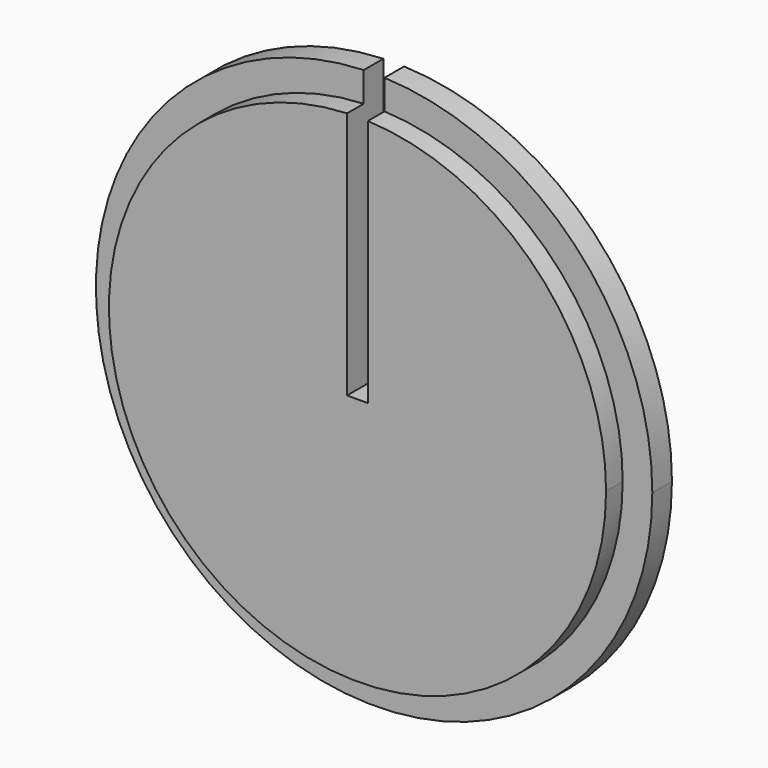
from build123d import *

# Parameters (mm, degrees)
F0_R     = 34.003595
F1_DEPTH = 3
F2_R     = 30.383163
F3_DEPTH = 2.54
F5_DEPTH = 25.4


with BuildPart() as f1:
    # F0 (on Front) → F1 (new body)
    with BuildSketch(Plane.XZ):
        Circle(F0_R)
    extrude(amount=F1_DEPTH)

    # F2 (on face) → F3 (join)
    with BuildSketch(Plane.XZ.offset(3)):
        Circle(F2_R)
    extrude(amount=F3_DEPTH)

    # F4 (on face) → F5 (cut)
    with BuildSketch(Plane(origin=(0, 0, 0), x_dir=(-1, 0, 0), z_dir=(0, 1, 0))):
        with BuildLine():
            Line((-1.27, 0), (0, 0))
            Line((0, 0), (1.27, 0))
            Line((1.27, 0), (1.27, 33.97987))
            ThreePointArc((1.27, 33.97987), (0, 34.003595), (-1.27, 33.97987))
            Line((-1.27, 33.97987), (-1.27, 0))
        make_face()
    extrude(amount=-F5_DEPTH, mode=Mode.SUBTRACT)


solid = f1.part
